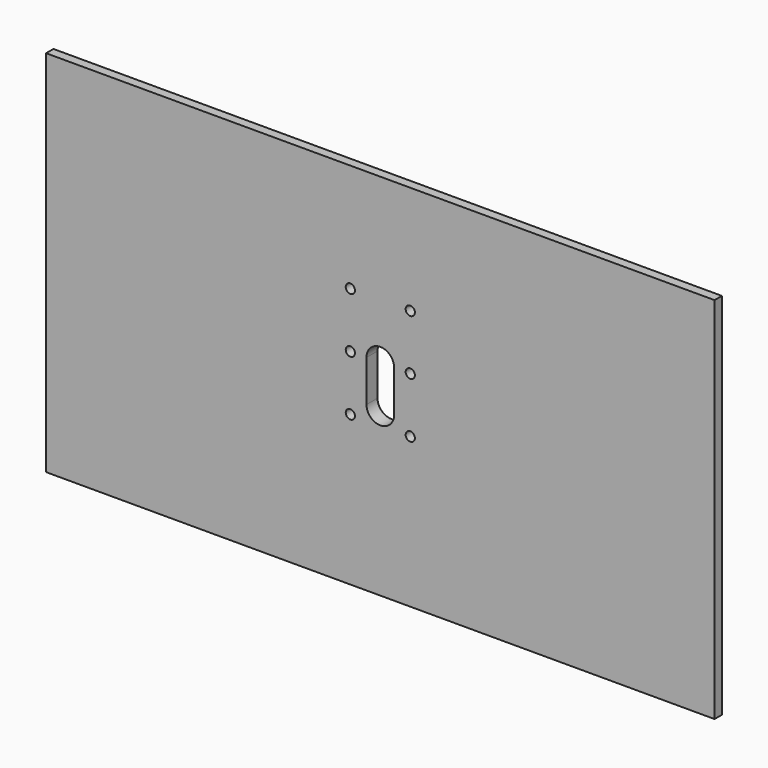
from build123d import *

# Parameters (mm, degrees)
F0_W     = 145
F0_H     = 80
F1_DEPTH = 2
F2_W     = 141
F2_H     = 76
F3_DEPTH = 1
F5_DEPTH = 25
F6_R     = 1
F7_DEPTH = 25


with BuildPart() as f1:
    # F0 (on Front) → F1 (new body)
    with BuildSketch(Plane.XZ):
        Rectangle(F0_W, F0_H)
    extrude(amount=F1_DEPTH)

    # F2 (on face) → F3 (join)
    with BuildSketch(Plane(origin=(0, 0, 0), x_dir=(-1, 0, 0), z_dir=(0, 1, 0))):
        Rectangle(F2_W, F2_H)
    extrude(amount=F3_DEPTH)

    # F4 (on face) → F5 (cut)
    with BuildSketch(Plane.XZ.offset(2)):
        with BuildLine():
            Line((3, -4.5), (3, 4.5))
            ThreePointArc((3, 4.5), (0, 7.5), (-3, 4.5))
            Line((-3, 4.5), (-3, -4.5))
            ThreePointArc((-3, -4.5), (0, -7.5), (3, -4.5))
        make_face()
    extrude(amount=-F5_DEPTH, mode=Mode.SUBTRACT)

    # F6 (on face) → F7 (cut)
    with BuildSketch(Plane.XZ.offset(2)):
        with Locations((-6.5, 16.5)):
            Circle(F6_R)
        with Locations((6.5, 16.5)):
            Circle(F6_R)
        with Locations((6.5, -7.5)):
            Circle(F6_R)
        with Locations((-6.5, -7.5)):
            Circle(F6_R)
        with Locations((-6.5, 4.5)):
            Circle(F6_R)
        with Locations((6.5, 4.5)):
            Circle(F6_R)
    extrude(amount=-F7_DEPTH, mode=Mode.SUBTRACT)


solid = f1.part
